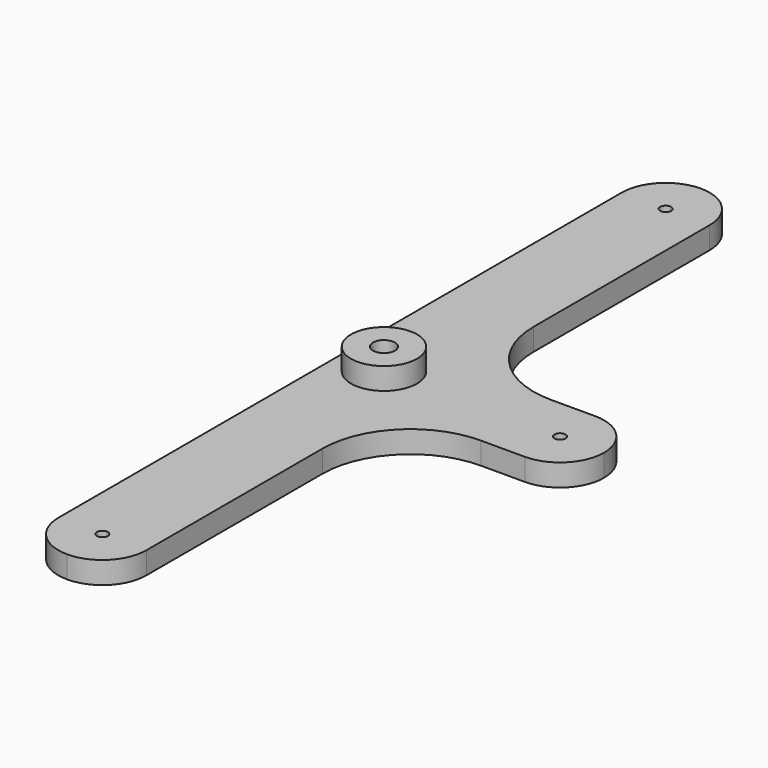
from build123d import *

# Parameters (mm, degrees)
F0_R     = 3.175
F1_DEPTH = 3.175
F2_R     = 4.7625
F3_DEPTH = 3.175
F4_R     = 1.5875
F5_DEPTH = 6.351
F6_R     = 0.79375
F6_R_2   = 3.175
F7_DEPTH = 3.19024


with BuildPart() as f1:
    # F0 (on Top) → F1 (new body)
    with BuildSketch(Plane.XY):
        Circle(F0_R)
    extrude(amount=F1_DEPTH)

    # F2 (on face) → F3 (join)
    with BuildSketch(Plane.XY.offset(3.175)):
        Circle(F2_R)
    extrude(amount=F3_DEPTH)

    # F4 (on face) → F5 (cut, through all)
    with BuildSketch(Plane.XY.offset(6.35)):
        Circle(F4_R)
    extrude(amount=-F5_DEPTH, mode=Mode.SUBTRACT)


with BuildPart() as f7:
    # F6 (on Top) → F7 (new body)
    with BuildSketch(Plane.XY):
        with BuildLine():
            Line((6.35, 19.05), (6.35, 50.8))
            ThreePointArc((6.35, 50.8), (4.490128, 55.290128), (0, 57.15))
            ThreePointArc((0, 57.15), (-4.490128, 55.290128), (-6.35, 50.8))
            Line((-6.35, 50.8), (-6.35, -50.8))
            ThreePointArc((-6.35, -50.8), (-4.490128, -55.290128), (0, -57.15))
            ThreePointArc((0, -57.15), (4.490128, -55.290128), (6.35, -50.8))
            Line((6.35, -50.8), (6.35, -19.05))
            ThreePointArc((6.35, -19.05), (10.069744, -10.069744), (19.05, -6.35))
            Line((19.05, -6.35), (25.4, -6.35))
            ThreePointArc((25.4, -6.35), (29.890128, -4.490128), (31.75, 0))
            ThreePointArc((31.75, 0), (29.890128, 4.490128), (25.4, 6.35))
            Line((25.4, 6.35), (19.05, 6.35))
            ThreePointArc((19.05, 6.35), (10.069744, 10.069744), (6.35, 19.05))
        make_face()
        with Locations((0, -50.8)):
            Circle(F6_R, mode=Mode.SUBTRACT)
        Circle(F6_R_2, mode=Mode.SUBTRACT)
        with Locations((0, 50.8)):
            Circle(F6_R, mode=Mode.SUBTRACT)
        with Locations((25.4, 0)):
            Circle(F6_R, mode=Mode.SUBTRACT)
    extrude(amount=F7_DEPTH)


solid = Compound([f1.part, f7.part])
